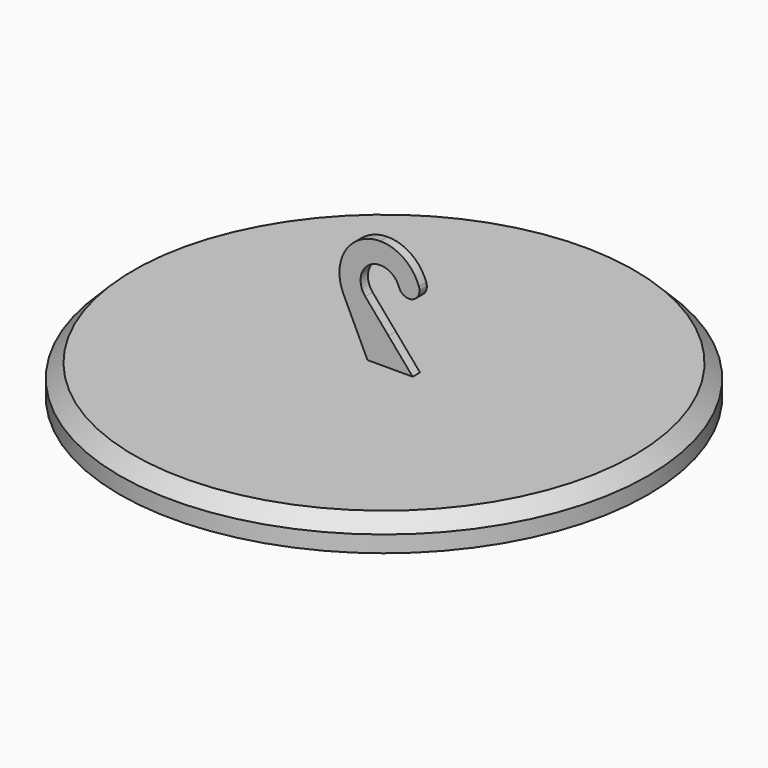
from build123d import *

# Parameters (mm, degrees)
F0_R     = 57.5
F1_DEPTH = 6.6
F2_SIZE  = 3
F3_W     = 17.8
F3_H     = 2
F4_DEPTH = 23.7
F6_DEPTH = 2


with BuildPart() as f1:
    # F0 (on Top) → F1 (new body)
    with BuildSketch(Plane.XY):
        Circle(F0_R)
    extrude(amount=F1_DEPTH)

    # F2
    f2_edges = [f1.edges().sort_by_distance(p)[0] for p in [
        (-57.5, 0, 6.6),
    ]]
    chamfer(f2_edges, length=F2_SIZE)

    # F3 (on face) → F4 (join)
    with BuildSketch(Plane.XY.offset(6.6)):
        Rectangle(F3_W, F3_H)
    extrude(amount=F4_DEPTH)

    # F5 (on face) → F6 (cut, through all)
    with BuildSketch(Plane.XZ.offset(1)):
        with BuildLine():
            Line((8.9, 6.6), (8.9, 21.4))
            ThreePointArc((8.9, 21.4), (6.9052664574, 15.7850828009), (1.8152145724, 12.6870787875))
            Line((1.8152145724, 12.6870787875), (7.0434488575, 6.6))
            Line((7.0434488575, 6.6), (8.9, 6.6))
        make_face()
        with BuildLine():
            ThreePointArc((1.8152145724, 12.6870787875), (6.9052664574, 15.7850828009), (8.9, 21.4))
            ThreePointArc((8.9, 21.4), (8.7734765611, 22.8953625083), (8.3975035885, 24.3482085207))
            ThreePointArc((8.3975035885, 24.3482085207), (8.494665146, 23.9727539281), (8.5273622155, 23.5863119259))
            ThreePointArc((8.5273622155, 23.5863119259), (6.6138042116, 21.3190089943), (4.0572208384, 22.8244153427))
            ThreePointArc((4.0572208384, 22.8244153427), (4.238870699, 22.12247851), (4.3, 21.4))
            ThreePointArc((4.3, 21.4), (1.4939175147, 17.3678528723), (-3.2619583531, 18.5982812949))
            Line((-3.2619583531, 18.5982812949), (1.8152145724, 12.6870787875))
        make_face()
        with BuildLine():
            ThreePointArc((4.3, 21.4), (4.238870699, 22.12247851), (4.0572208384, 22.8244153427))
            ThreePointArc((4.0572208384, 22.8244153427), (-2.1501541462, 25.1238202356), (-3.2619583531, 18.5982812949))
            ThreePointArc((-3.2619583531, 18.5982812949), (1.4939175147, 17.3678528723), (4.3, 21.4))
        make_face()
        with BuildLine():
            ThreePointArc((8.3975035885, 24.3482085207), (8.7734765611, 22.8953625083), (8.9, 21.4))
            Line((8.9, 21.4), (8.9, 30.3))
            Line((8.9, 30.3), (0, 30.3))
            ThreePointArc((0, 30.3), (5.146403801, 28.6611657409), (8.3975035885, 24.3482085207))
        make_face()
        with BuildLine():
            ThreePointArc((-8.9, 21.4), (-6.2932503526, 27.6932503526), (0, 30.3))
            Line((0, 30.3), (-8.9, 30.3))
            Line((-8.9, 30.3), (-8.9, 21.4))
        make_face()
        with BuildLine():
            Line((-2.7928547934, 6.6), (-8.0305968219, 17.5633980289))
            ThreePointArc((-8.0305968219, 17.5633980289), (-8.6799283325, 19.4330622423), (-8.9, 21.4))
            Line((-8.9, 21.4), (-8.9, 6.6))
            Line((-8.9, 6.6), (-2.7928547934, 6.6))
        make_face()
    extrude(amount=-F6_DEPTH, mode=Mode.SUBTRACT)


solid = f1.part
